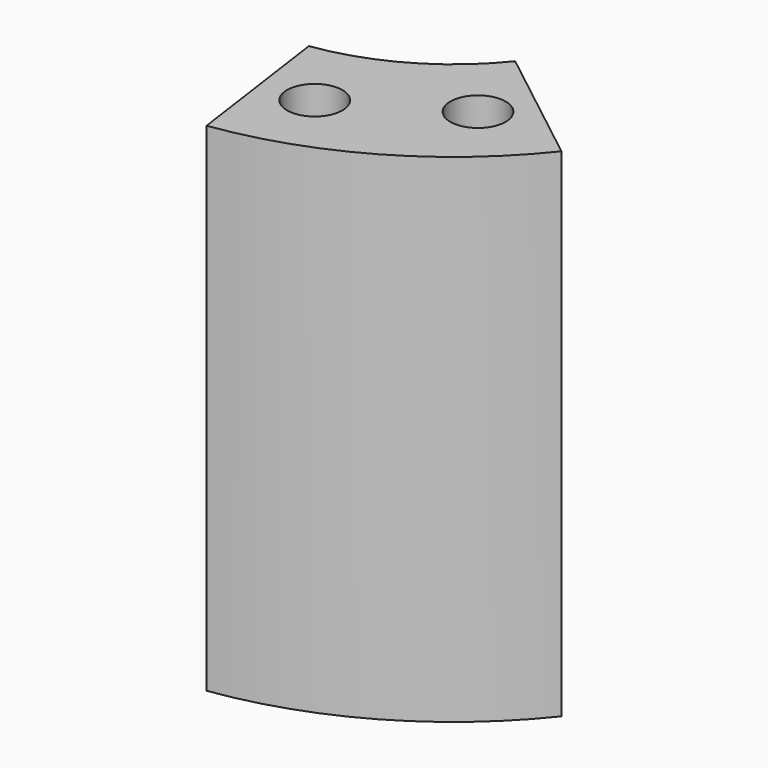
from build123d import *

# Parameters (mm, degrees)
CYLINDER860_R          = 1.5
CYLINDER860_DEPTH      = 60
CYLINDER859_R          = 1.5
CYLINDER859_DEPTH      = 60
BOX336_W               = 20
BOX336_H               = 40
BOX336_DEPTH           = 60
BOX336_PLACEMENT_ANGLE = 22
BOX410_W               = 20
BOX410_H               = 40
BOX410_DEPTH           = 60
BOX410_PLACEMENT_ANGLE = 22
BOX335_W               = 60
BOX335_H               = 40
BOX335_DEPTH           = 60
TUBE037_R              = 20.5
TUBE037_R_2            = 12
TUBE037_DEPTH          = 27
CUT470_PLACEMENT_ANGLE = 210


with BuildPart() as obj1:
    # Cylinder860 → Cylinder860 (new body)
    with BuildSketch(Plane(origin=(-3.5, 16, 0), x_dir=(1, 0, 0), z_dir=(0, 0, 1))):
        Circle(CYLINDER860_R)
    extrude(amount=CYLINDER860_DEPTH)


with BuildPart() as compound565:
    # Cylinder859 → Cylinder859 (new body)
    with BuildSketch(Plane(origin=(3.5, 16, 0), x_dir=(1, 0, 0), z_dir=(0, 0, 1))):
        Circle(CYLINDER859_R)
    extrude(amount=CYLINDER859_DEPTH)

    # Compound565: union obj1
    add(obj1.part)


with BuildPart() as krychle336:
    # Box336 → Box336 (new body)
    with BuildSketch(Plane.XY):
        with Locations((10, 20)):
            Rectangle(BOX336_W, BOX336_H)
    extrude(amount=BOX336_DEPTH)


with BuildPart() as krychle336_1:
    # Box336 placement: moved
    add(krychle336.part.rotate(Axis((0, 0, 0), (0, 0, -1)), BOX336_PLACEMENT_ANGLE))


with BuildPart() as krychle410:
    # Box410 → Box410 (new body)
    with BuildSketch(Plane.XY):
        with Locations((10, 20)):
            Rectangle(BOX410_W, BOX410_H)
    extrude(amount=BOX410_DEPTH)


with BuildPart() as krychle410_1:
    # Box410 placement: moved
    add(krychle410.part.moved(Location((-19.32, -5.18, 0))).rotate(Axis((-19.32, -5.18, 0), (0, 0, 1)), BOX410_PLACEMENT_ANGLE))


with BuildPart() as krychle335:
    # Box335 → Box335 (new body)
    with BuildSketch(Plane(origin=(-30, -35, 0), x_dir=(1, 0, 0), z_dir=(0, 0, 1))):
        with Locations((30, 20)):
            Rectangle(BOX335_W, BOX335_H)
    extrude(amount=BOX335_DEPTH)


with BuildPart() as cut470:
    # Tube037 → Tube037 (new body)
    with BuildSketch(Plane.XY.offset(23)):
        Circle(TUBE037_R)
        Circle(TUBE037_R_2, mode=Mode.SUBTRACT)
    extrude(amount=TUBE037_DEPTH)

    # Cut355: cut Krychle335
    add(krychle335.part, mode=Mode.SUBTRACT)

    # Cut357: cut Krychle410
    add(krychle410_1.part, mode=Mode.SUBTRACT)

    # Cut358: cut Krychle336
    add(krychle336_1.part, mode=Mode.SUBTRACT)

    # Cut470: cut Compound565
    add(compound565.part, mode=Mode.SUBTRACT)


with BuildPart() as cut470_1:
    # Cut470 placement: moved
    add(cut470.part.rotate(Axis((0, 0, 0), (0, 0, 1)), CUT470_PLACEMENT_ANGLE))


solid = cut470_1.part
